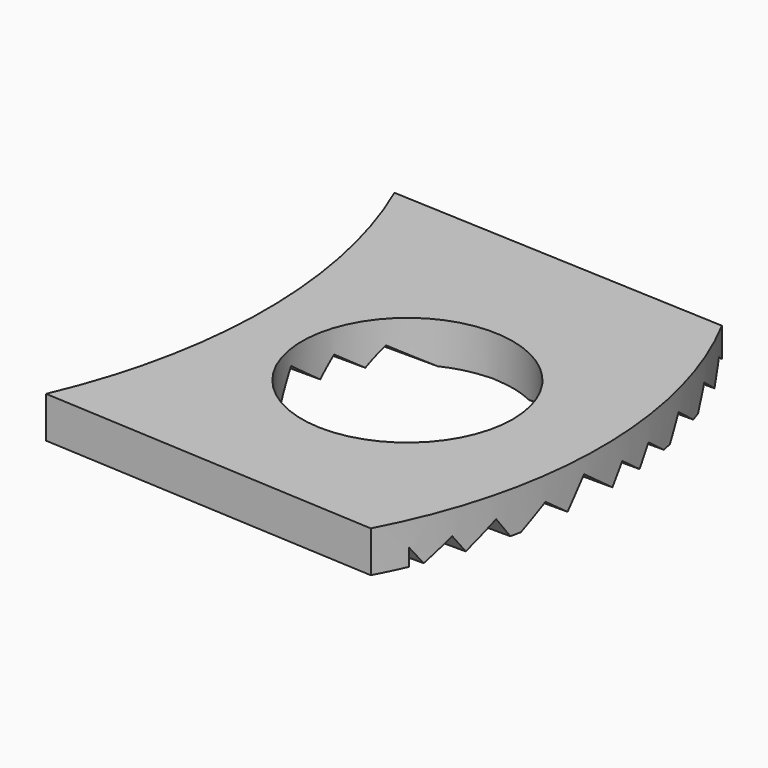
from build123d import *

# Parameters (mm, degrees)
F0_R          = 20.4570134616
F1_DEPTH      = 8
F3_DEPTH      = 39.9303750525
F3_DEPTH_BACK = 36.6262506595


with BuildPart() as f1:
    # F0 (on Top) → F1 (new body)
    with BuildSketch(Plane.XY):
        with BuildLine():
            Line((26.0145924985, 43.7105707824), (-39.9293750525, 46.7698224776))
            ThreePointArc((-39.9293750525, 46.7698224776), (-31.1732722705, 4.5545801964), (-39.9293750525, -37.6606620848))
            Line((-39.9293750525, -37.6606620848), (26.0145924985, -41.3985941777))
            ThreePointArc((26.0145924985, -41.3985941777), (36.6252506595, 1.1559883023), (26.0145924985, 43.7105707824))
        make_face()
        Circle(F0_R, mode=Mode.SUBTRACT)
    extrude(amount=F1_DEPTH)

    # F2 (on Right) → F3 (cut, two sides)
    with BuildSketch(Plane.YZ) as f3_sk:
        Polygon((46.8867681921, -9.8310960457), (46.8867681921, 0), (41.7443476617, 3.7811910734), (38.9640604703, 0), (33.7552301478, 3.8300217966), (30.2384872583, -0.9527491568), (23.4185017684, 4.0619454024), (19.7312268381, -0.9527491568), (13.7370294066, 3.4547483798), (11.1967735762, 0), (6.498315167, 3.4547483798), (3.9580593366, 0), (-2.8641208355, 5.0163082959), (-6.5525823368, 0), (-11.251040746, 3.4547483798), (-17.5447277725, -0.9527491568), (-20.8783004803, 3.8074266864), (-26.315116211, 0), (-28.6187960147, 3.2895400561), (-33.3160954238, 0), (-35.6197752275, 3.2895400561), (-35.6197752275, 0), (-36.6019308567, -9.8310960457), align=None)
    extrude(amount=-F3_DEPTH, mode=Mode.SUBTRACT)
    extrude(f3_sk.sketch, amount=F3_DEPTH_BACK, mode=Mode.SUBTRACT)


solid = f1.part
